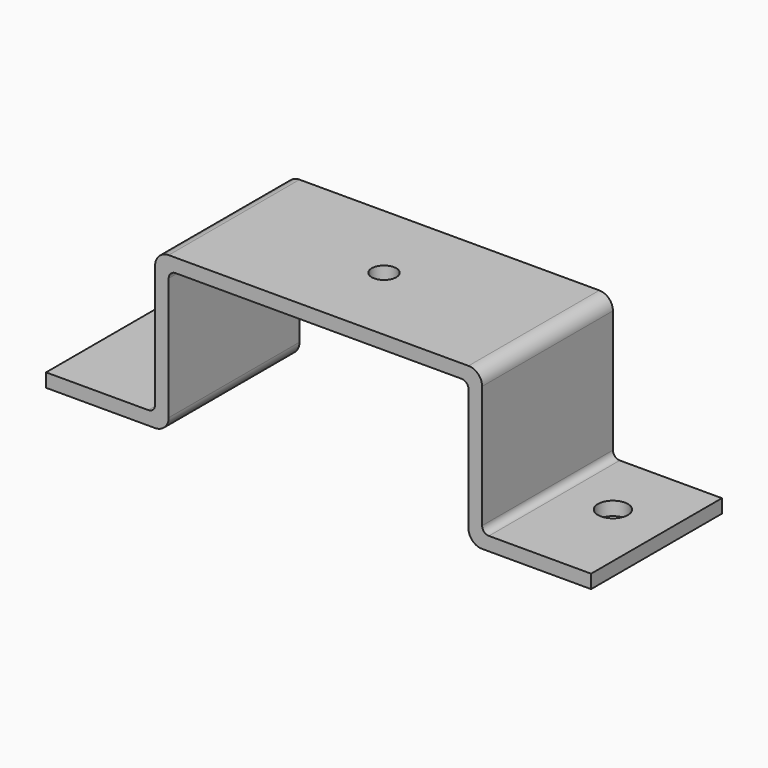
from build123d import *

# Parameters (mm, degrees)
F1_DEPTH = 120
F3_D     = 22
F4_D     = 18
F5_R     = 10
F6_R     = 5


with BuildPart() as f1:
    # F0 (on Front) → F1 (new body)
    with BuildSketch(Plane.XZ):
        Polygon((-200, 10), (-200, 0), (-110, 0), (-110, 105), (110, 105), (110, 0), (200, 0), (200, 10), (120, 10), (120, 115), (-120, 115), (-120, 10), align=None)
    extrude(amount=F1_DEPTH)

    # F3 (through all)
    with Locations(Plane.XY.offset(10)):
        with Locations((160, -50), (-160, -50)):
            Hole(F3_D / 2)

    # F4 (through all)
    with Locations(Plane(origin=(0, 0, 10), x_dir=(1, 0, 0), z_dir=(0, 0, -1))):
        with Locations((0, 60)):
            Hole(F4_D / 2)

    # F5
    f5_edges = [f1.edges().sort_by_distance(p)[0] for p in [
        (-120, -60, 115),
        (120, -60, 115),
        (110, -60, 0),
        (-110, -60, 0),
    ]]
    fillet(f5_edges, radius=F5_R)

    # F6
    f6_edges = [f1.edges().sort_by_distance(p)[0] for p in [
        (-110, -60, 105),
        (110, -60, 105),
        (120, -60, 10),
        (-120, -60, 10),
    ]]
    fillet(f6_edges, radius=F6_R)


solid = f1.part
